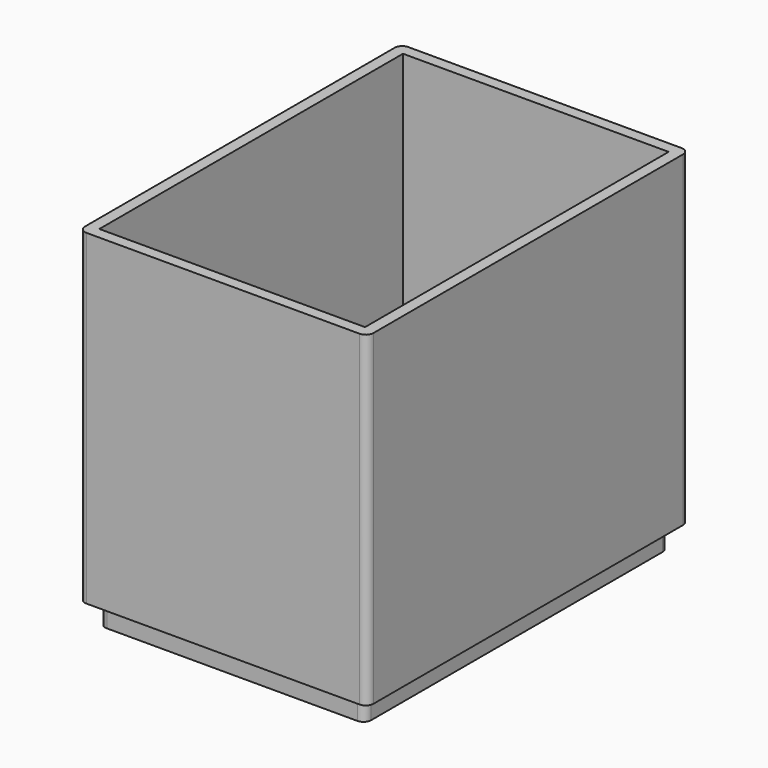
from build123d import *

# Parameters (mm, degrees)
F0_W     = 35
F0_H     = 50
F1_DEPTH = 3
F0_W_2   = 38
F0_H_2   = 53
F2_DEPTH = 1.6
F3_DEPTH = 43
F4_R     = 1


with BuildPart() as f1:
    # F0 (on Top) → F1 (new body)
    with BuildSketch(Plane.XY):
        with Locations((19, 26.5)):
            Rectangle(F0_W, F0_H)
    extrude(amount=-F1_DEPTH)

    # F0 (on Top) → F2 (join)
    with BuildSketch(Plane.XY):
        with Locations((19, 26.5)):
            Rectangle(F0_W_2, F0_H_2)
        with Locations((19, 26.5)):
            Rectangle(F0_W, F0_H, mode=Mode.SUBTRACT)
        with Locations((19, 26.5)):
            Rectangle(F0_W, F0_H)
    extrude(amount=F2_DEPTH)

    # F0 (on Top) → F3 (join)
    with BuildSketch(Plane.XY):
        with Locations((19, 26.5)):
            Rectangle(F0_W_2, F0_H_2)
        with Locations((19, 26.5)):
            Rectangle(F0_W, F0_H, mode=Mode.SUBTRACT)
    extrude(amount=F3_DEPTH)

    # F4
    f4_edges = [f1.edges().sort_by_distance(p)[0] for p in [
        (36.5, 1.5, -1.5),
        (1.5, 1.5, -1.5),
        (1.5, 51.5, -1.5),
        (36.5, 51.5, -1.5),
        (0, 53, 21.5),
        (38, 53, 21.5),
        (0, 0, 21.5),
        (38, 0, 21.5),
    ]]
    fillet(f4_edges, radius=F4_R)


solid = f1.part
